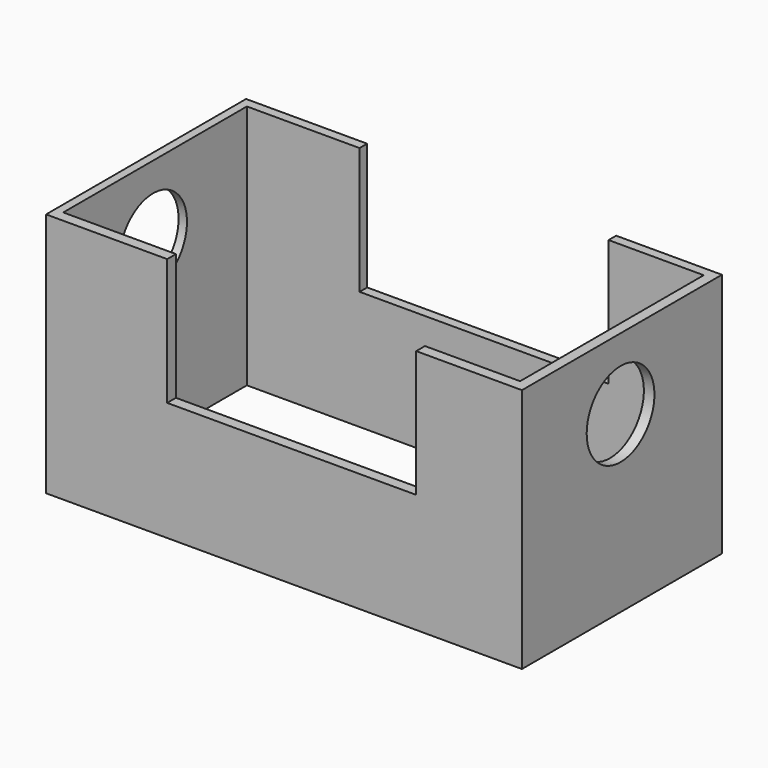
from build123d import *

# Parameters (mm, degrees)
F0_W     = 196.9244256616
F0_H     = 103.4533828497
F1_DEPTH = 101.6
F2_W     = 103.0500568449
F2_H     = 91.7569026351
F3_DEPTH = 103.4543828497
F4_R     = 17.5216087131
F5_DEPTH = 196.9254256616
F6_W     = 189.05954808
F6_H     = 94.9835181236
F7_DEPTH = 52.3746936212
F8_W     = 189.05954808
F8_H     = 94.9835181236
F9_DEPTH = 49.2273063788


with BuildPart() as f1:
    # F0 (on Top) → F1 (new body)
    with BuildSketch(Plane.XY):
        with Locations((0.1512430608, -5.2936673164)):
            Rectangle(F0_W, F0_H)
    extrude(amount=F1_DEPTH)

    # F2 (on face) → F3 (cut, through all)
    with BuildSketch(Plane.XZ.offset(57.0203587413)):
        with Locations((3.3274423331, 95.1047576964)):
            Rectangle(F2_W, F2_H)
    extrude(amount=-F3_DEPTH, mode=Mode.SUBTRACT)

    # F4 (on face) → F5 (cut, through all)
    with BuildSketch(Plane(origin=(-98.31096977, 0, 0), x_dir=(0, -1, 0), z_dir=(-1, 0, 0))):
        with Locations((5.9994906187, 72.1655264497)):
            Circle(F4_R)
    extrude(amount=-F5_DEPTH, mode=Mode.SUBTRACT)

    # F6 (on face) → F7 (cut, through all)
    with BuildSketch(Plane.XY.offset(49.2263063788)):
        with Locations((-0.3025047481, -4.9911737442)):
            Rectangle(F6_W, F6_H)
    extrude(amount=F7_DEPTH, mode=Mode.SUBTRACT)

    # F8 (on face) → F9 (cut, through all)
    with BuildSketch(Plane.XY.offset(49.2263063788)):
        with Locations((-0.3025047481, -4.9911737442)):
            Rectangle(F8_W, F8_H)
    extrude(amount=-F9_DEPTH, mode=Mode.SUBTRACT)


solid = f1.part
